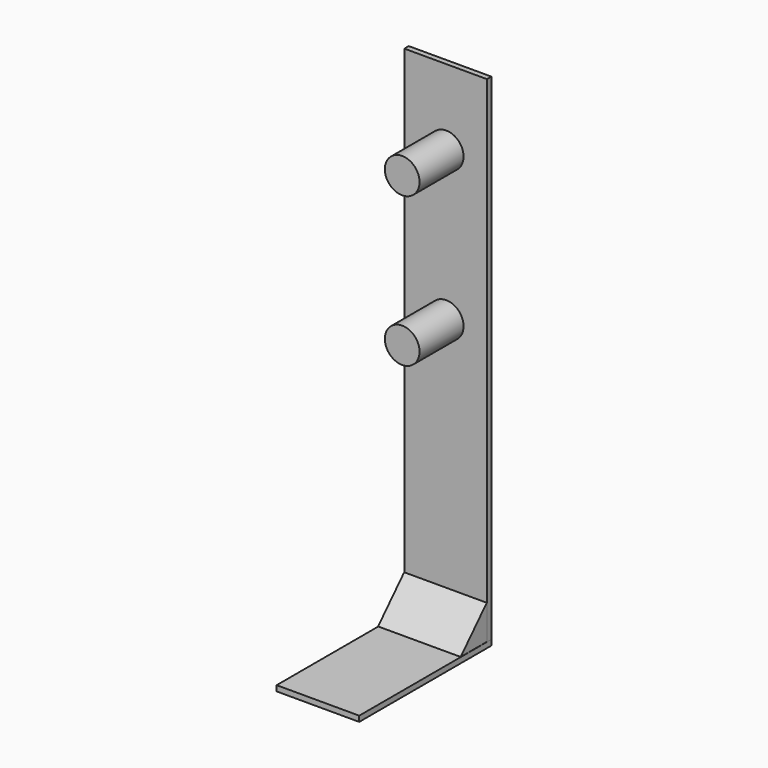
from build123d import *

# Parameters (mm, degrees)
F0_W          = 76.2
F0_H          = 152.4
F1_DEPTH      = 5.08
F2_W          = 76.2
F2_H          = 457.2
F3_DEPTH      = 5.08
F5_DEPTH      = 50.8
F5_DEPTH_BACK = 25.4
F6_R          = 16.003945
F7_DEPTH      = 50.8


with BuildPart() as f1:
    # F0 (on Top) → F1 (new body)
    with BuildSketch(Plane.XY):
        with Locations((12.875189, -76.2)):
            Rectangle(F0_W, F0_H)
    extrude(amount=F1_DEPTH)


with BuildPart() as f3:
    # F2 (on Front) → F3 (new body)
    with BuildSketch(Plane.XZ):
        with Locations((12.875189, 233.68)):
            Rectangle(F2_W, F2_H)
    extrude(amount=F3_DEPTH)

    # F6 (on face) → F7 (join)
    with BuildSketch(Plane.XZ.offset(5.08)):
        with Locations((13.400241, 392.314672)):
            Circle(F6_R)
        with Locations((13.400241, 254.516184)):
            Circle(F6_R)
    extrude(amount=F7_DEPTH)


with BuildPart() as f5:
    # F4 (on Right) → F5 (new body, two sides)
    with BuildSketch(Plane.YZ) as f5_sk:
        Polygon((-5.08, 5.08), (-5.08, 36.859853), (-35.172426, 5.08), align=None)
    extrude(amount=F5_DEPTH)
    extrude(f5_sk.sketch, amount=-F5_DEPTH_BACK)


solid = Compound([f1.part, f3.part, f5.part])
